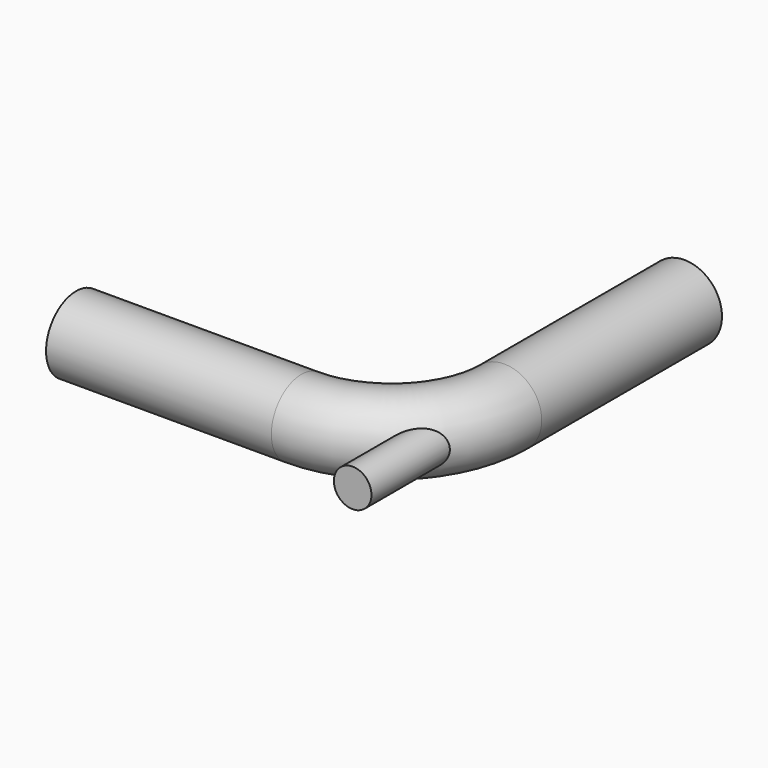
from build123d import *

# Parameters (mm, degrees)
F1_R     = 500
F4_R     = 250
F5_DEPTH = 1304.9826492664


with BuildPart() as f2:
    # F2: sweep along a path in F0
    with BuildLine(Plane.XY) as f2_path:
        Line((0, 0), (3000, 0))
        ThreePointArc((3000, 0), (4060.6601717798, 439.3398282202), (4500, 1500))
        Line((4500, 1500), (4500, 4500))
    # F1 (on Right) → F2 (sweep)
    with BuildSketch(Plane.YZ):
        Circle(F1_R)
    sweep(path=f2_path.line)

    # F4 (on plane+point) → F5 (join, through all)
    with BuildSketch(Plane.XZ.offset(914.2135623731)):
        with Locations((4414.2135623731, 0)):
            Circle(F4_R)
    extrude(amount=-F5_DEPTH)


solid = f2.part
